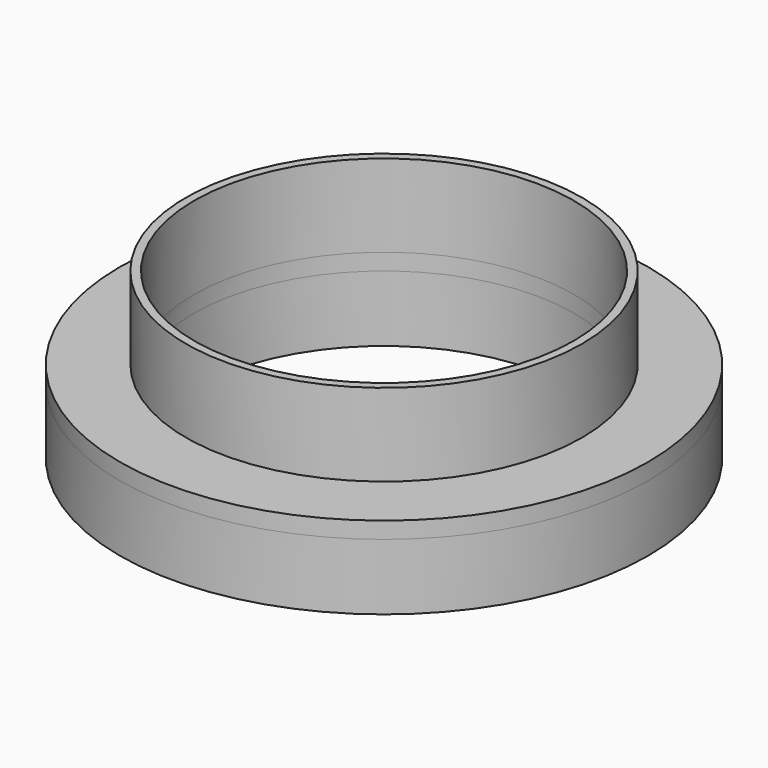
from build123d import *

# Parameters (mm, degrees)
F0_R        = 40.64
F0_R_2      = 29.21
F1_DEPTH    = 10.16
F1_FACE_R   = 40.64
F1_FACE_R_2 = 29.21
F2_DEPTH    = 2.54
F3_R        = 30.48
F3_R_2      = 29.21
F4_DEPTH    = 15.24


with BuildPart() as f1:
    # F0 (on Top) → F1 (new body)
    with BuildSketch(Plane.XY):
        Circle(F0_R)
        Circle(F0_R_2, mode=Mode.SUBTRACT)
    extrude(amount=-F1_DEPTH)

    # F1_face (on face) → F2 (join)
    with BuildSketch(Plane.XY):
        Circle(F1_FACE_R)
        Circle(F1_FACE_R_2, mode=Mode.SUBTRACT)
    extrude(amount=F2_DEPTH)

    # F3 (on Top) → F4 (join)
    with BuildSketch(Plane.XY):
        Circle(F3_R)
        Circle(F3_R_2, mode=Mode.SUBTRACT)
    extrude(amount=F4_DEPTH)


solid = f1.part
